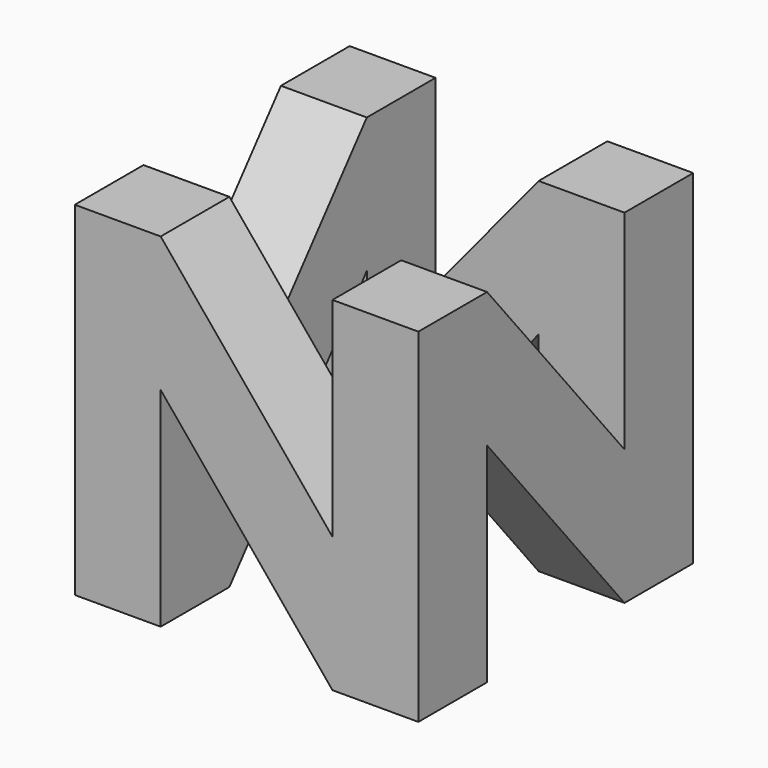
from build123d import *

# Parameters (mm, degrees)
F0_W      = 101.6
F0_H      = 101.6
F1_DEPTH  = 25.4
F3_DEPTH  = 25.401
F5_DEPTH  = 76.2
F7_DEPTH  = 25.4
F9_DEPTH  = 76.2
F11_DEPTH = 25.4
F13_DEPTH = 50.8
F15_DEPTH = 25.4


with BuildPart() as f1:
    # F0 (on Front) → F1 (new body)
    with BuildSketch(Plane.XZ):
        Rectangle(F0_W, F0_H)
    extrude(amount=F1_DEPTH)

    # F2 (on face) → F3 (cut, through all)
    with BuildSketch(Plane.XZ.offset(25.4)):
        Polygon((25.4, 50.8), (-25.4, 50.8), (25.4, -10.855978), align=None)
        Polygon((-25.4, 10.855978), (-25.4, -50.8), (25.4, -50.8), align=None)
    extrude(amount=-F3_DEPTH, mode=Mode.SUBTRACT)

    # F4 (on face) → F5 (join)
    with BuildSketch(Plane(origin=(0, 0, 0), x_dir=(-1, 0, 0), z_dir=(0, 1, 0))):
        Polygon((-25.4, 50.8), (-50.8, 50.8), (-50.8, -50.8), (-25.4, -50.8), (-25.4, -10.855978), align=None)
    extrude(amount=F5_DEPTH)

    # F6 (on face) → F7 (cut)
    with BuildSketch(Plane.YZ.offset(50.8)):
        Polygon((50.8, 50.8), (0, 50.8), (50.8, -10.855978), align=None)
        Polygon((0, 10.855978), (0, -50.8), (50.8, -50.8), align=None)
    extrude(amount=-F7_DEPTH, mode=Mode.SUBTRACT)

    # F8 (on face) → F9 (join)
    with BuildSketch(Plane(origin=(25.4, 0, 0), x_dir=(0, -1, 0), z_dir=(-1, 0, 0))):
        Polygon((-50.8, -10.855978), (-50.8, 50.8), (-76.2, 50.8), (-76.2, -50.8), (-50.8, -50.8), align=None)
    extrude(amount=F9_DEPTH)

    # F10 (on face) → F11 (cut)
    with BuildSketch(Plane(origin=(0, 76.2, 0), x_dir=(-1, 0, 0), z_dir=(0, 1, 0))):
        Polygon((25.4, 50.8), (-25.4, 50.8), (25.4, -10.855978), align=None)
        Polygon((-25.4, 10.855978), (-25.4, -50.8), (25.4, -50.8), align=None)
    extrude(amount=-F11_DEPTH, mode=Mode.SUBTRACT)

    # F12 (on face) → F13 (join)
    with BuildSketch(Plane.XZ.offset(-50.8)):
        Polygon((-25.4, -10.855978), (-25.4, 50.8), (-50.8, 50.8), (-50.8, -50.8), (-25.4, -50.8), align=None)
    extrude(amount=F13_DEPTH)

    # F14 (on face) → F15 (cut)
    with BuildSketch(Plane(origin=(-50.8, 0, 0), x_dir=(0, -1, 0), z_dir=(-1, 0, 0))):
        Polygon((0, 50.8), (-50.8, 50.8), (0, -10.855978), align=None)
        Polygon((-50.8, 10.855978), (-50.8, -50.8), (0, -50.8), align=None)
    extrude(amount=-F15_DEPTH, mode=Mode.SUBTRACT)


solid = f1.part
